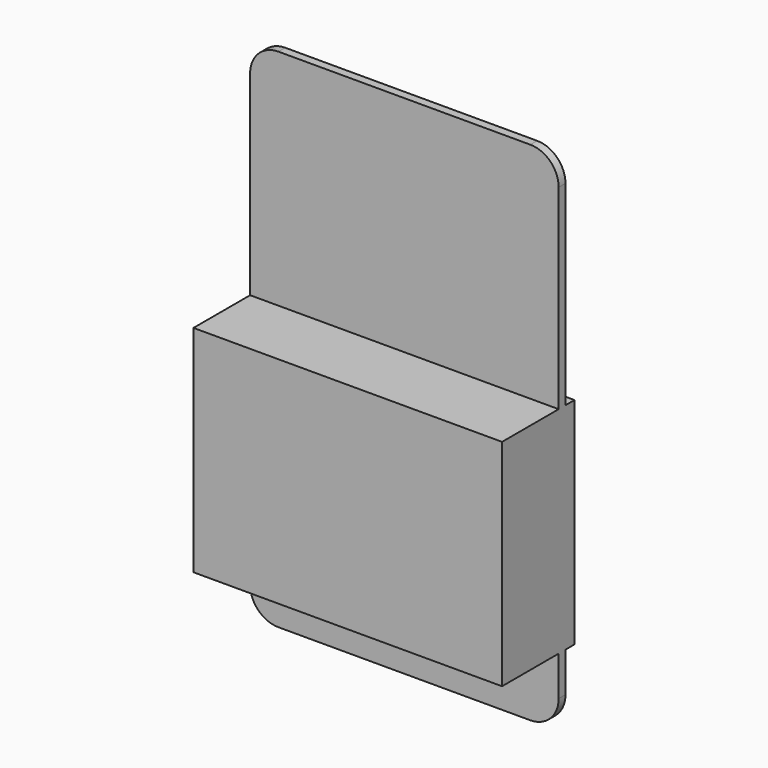
from build123d import *

# Parameters (mm, degrees)
F0_W          = 109
F0_H          = 179
F1_DEPTH      = 3
F2_R          = 10
F3_W          = 109
F3_H          = 76
F4_DEPTH      = 25
F4_DEPTH_BACK = 7


with BuildPart() as f1:
    # F0 (on Front) → F1 (new body)
    with BuildSketch(Plane.XZ):
        Rectangle(F0_W, F0_H)
    extrude(amount=F1_DEPTH)

    # F2
    f2_edges = [f1.edges().sort_by_distance(p)[0] for p in [
        (54.5, -1.5, 89.5),
        (-54.5, -1.5, 89.5),
        (54.5, -1.5, -89.5),
        (-54.5, -1.5, -89.5),
    ]]
    fillet(f2_edges, radius=F2_R)

    # F3 (on face) → F4 (join, two sides)
    with BuildSketch(Plane.XZ.offset(3)) as f4_sk:
        with Locations((0, -27.5)):
            Rectangle(F3_W, F3_H)
    extrude(amount=F4_DEPTH)
    extrude(f4_sk.sketch, amount=-F4_DEPTH_BACK)


solid = f1.part
